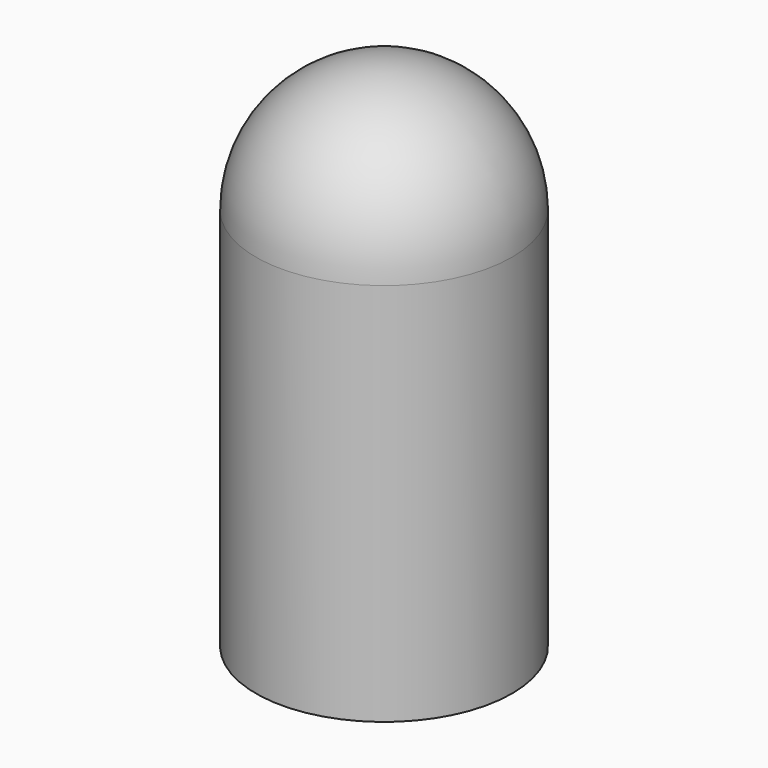
from build123d import *

# Parameters (mm, degrees)
F0_R     = 63.5
F0_R_2   = 57.15
F0_R_3   = 47.625
F1_DEPTH = 254
F2_R     = 63.5


with BuildPart() as f1:
    # F0 (on Top) → F1 (new body)
    with BuildSketch(Plane.XY):
        Circle(F0_R)
        Circle(F0_R_2, mode=Mode.SUBTRACT)
        Circle(F0_R_2)
        Circle(F0_R_3, mode=Mode.SUBTRACT)
        Circle(F0_R_3)
    extrude(amount=F1_DEPTH)

    # F2
    f2_edges = [f1.edges().sort_by_distance(p)[0] for p in [
        (-63.5, 0, 254),
    ]]
    fillet(f2_edges, radius=F2_R)


solid = f1.part
